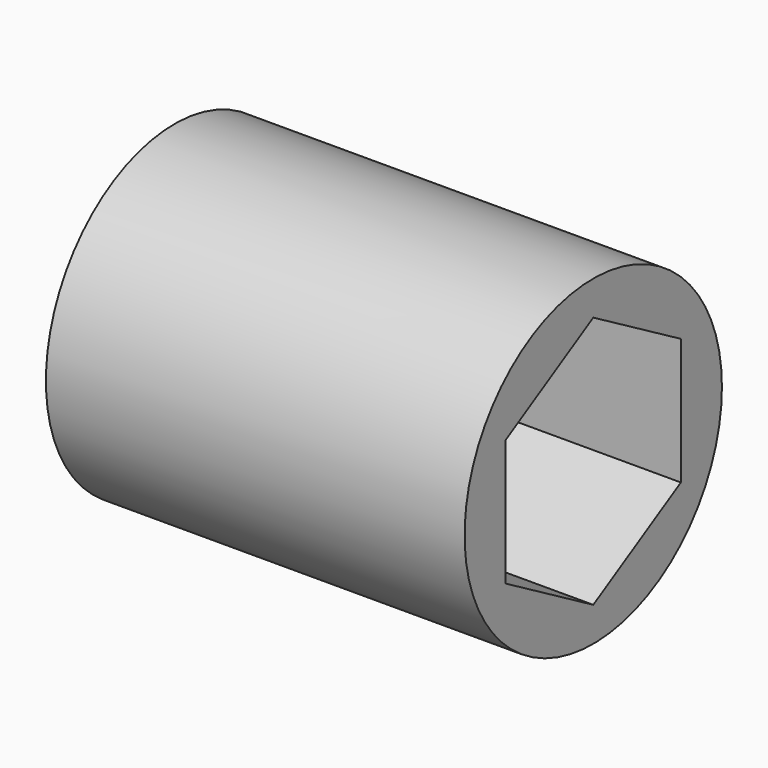
from build123d import *

# Parameters (mm, degrees)
F0_R     = 9.756
F1_DEPTH = 25.4


with BuildPart() as f1:
    # F0 (on Right) → F1 (new body)
    with BuildSketch(Plane.YZ):
        with Locations((-0.415131, 0.719028)):
            Circle(F0_R)
        Polygon((6.226969, 4.553847), (6.226969, -3.11579), (-0.415131, -6.950608), (-7.057231, -3.11579), (-7.057231, 4.553847), (-0.415131, 8.388665), align=None, mode=Mode.SUBTRACT)
    extrude(amount=F1_DEPTH)


solid = f1.part
